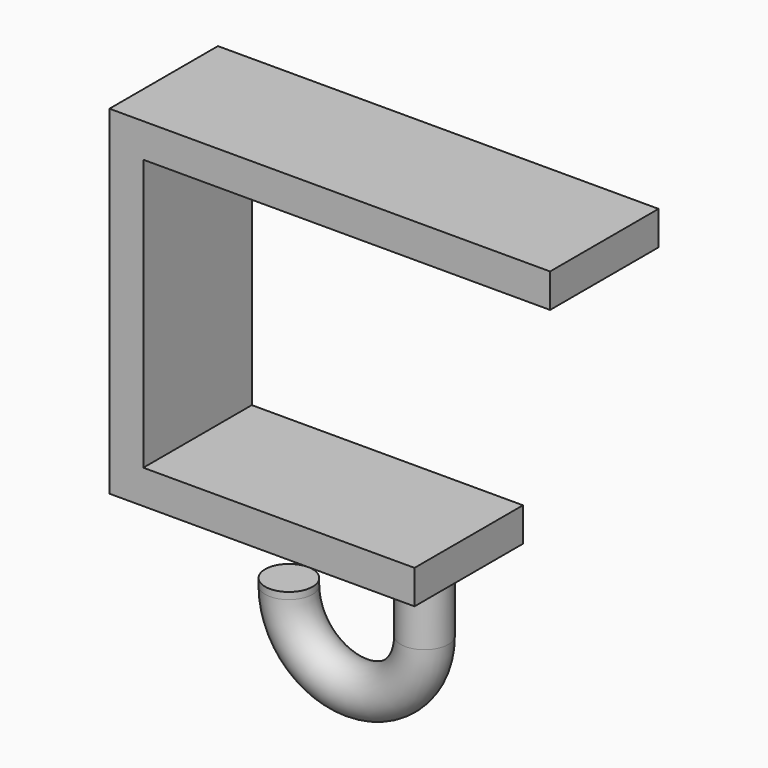
from build123d import *

# Parameters (mm, degrees)
F1_DEPTH  = 20
F3_R      = 3.5
F4_DEPTH  = 10
F8_R      = 3.5
F9_DEPTH  = 1
F9_FACE_R = 3.5


with BuildPart() as f1:
    # F0 (on Front) → F1 (new body)
    with BuildSketch(Plane.XZ):
        Polygon((0, -40), (0, 0), (60, 0), (60, 5), (-5, 5), (-5, -45), (40, -45), (40, -40), align=None)
    extrude(amount=F1_DEPTH)

    # F3 (on offset) → F4 (join)
    with BuildSketch(Plane(origin=(0, 0, -45), x_dir=(1, 0, 0), z_dir=(0, 0, -1))):
        with Locations((33.4731638432, 10)):
            Circle(F3_R)
    extrude(amount=F4_DEPTH)



with BuildPart() as f9:
    # F8 (on offset) → F9 (new body)
    with BuildSketch(Plane(origin=(0, 0, -55), x_dir=(1, 0, 0), z_dir=(0, 0, -1))):
        with Locations((13.4731638432, 10)):
            Circle(F8_R)
    extrude(amount=-F9_DEPTH)


with BuildPart() as f1_1:
    add(f1.part)

    add(f9.part)  # F10 merges F9
    # F10: sweep along a path in F6
    with BuildLine(Plane(origin=(0, -10, 0), x_dir=(-1, 0, 0), z_dir=(0, 1, 0))) as f10_path:
        ThreePointArc((-33.4731638432, -55), (-23.4731638432, -65), (-13.4731638432, -55))
    # F9_face (on face) → F10 (sweep)
    with BuildSketch(Plane(origin=(13.4731638432, -10, -55), x_dir=(1, 0, 0), z_dir=(0, 0, -1))):
        Circle(F9_FACE_R)
    sweep(path=f10_path.line)


solid = f1_1.part
